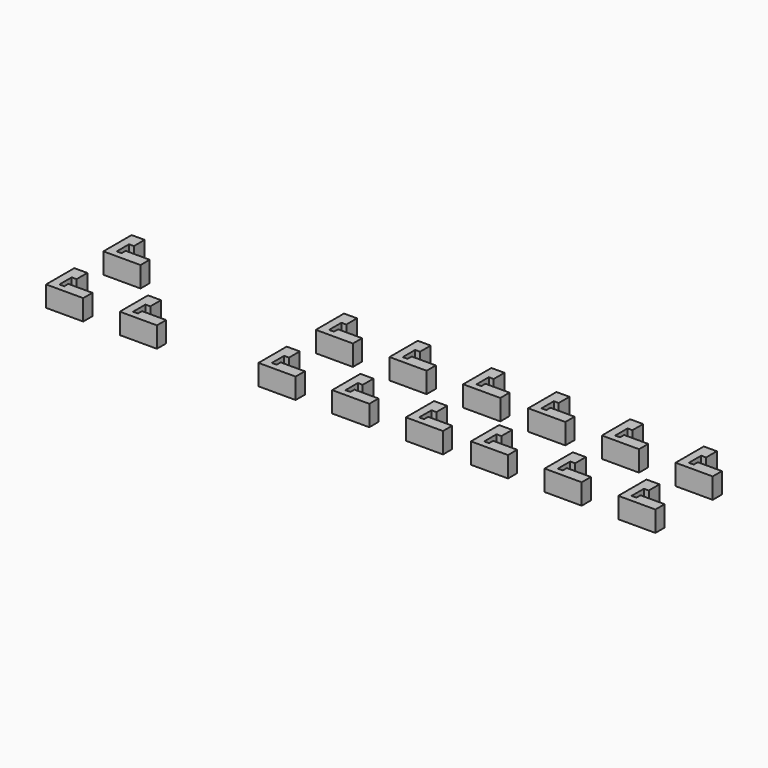
from build123d import *

# Parameters (mm, degrees)
F1_DEPTH = 25.4


with BuildPart() as f1:
    # F0 (on Top) → F1 (new body)
    with BuildSketch(Plane.XY):
        Polygon((-6.8024713546, 45.5786075115), (-6.8024713546, 62.0988953531), (-22.8368639946, 62.0988953531), (-22.8368639946, 18.6926565737), (22.8368602693, 18.6926565737), (22.8368602693, 32.8786075115), (-6.8024713546, 32.8786075115), (-6.8024713546, 26.574909687), (-12.7951232716, 26.574909687), (-12.7951232716, 32.8786075115), (-12.7951232716, 45.5786075115), align=None)
    extrude(amount=F1_DEPTH)


with BuildPart() as f1b:
    # F0 (on Top) → F1, piece 2 (new body)
    with BuildSketch(Plane.XY):
        Polygon((-6.8024713546, 133.7166075115), (-6.8024713546, 150.2368953531), (-22.8368639946, 150.2368953531), (-22.8368639946, 106.8306565737), (22.8368602693, 106.8306565737), (22.8368602693, 121.0166075115), (-6.8024713546, 121.0166075115), (-6.8024713546, 114.712909687), (-12.7951232716, 114.712909687), (-12.7951232716, 121.0166075115), (-12.7951232716, 133.7166075115), align=None)
    extrude(amount=F1_DEPTH)


with BuildPart() as f1c:
    # F0 (on Top) → F1, piece 3 (new body)
    with BuildSketch(Plane.XY):
        Polygon((83.8755286454, 45.5786075115), (83.8755286454, 62.0988953531), (67.8411360054, 62.0988953531), (67.8411360054, 18.6926565737), (113.5148602693, 18.6926565737), (113.5148602693, 32.8786075115), (83.8755286454, 32.8786075115), (83.8755286454, 26.574909687), (77.8828767284, 26.574909687), (77.8828767284, 32.8786075115), (77.8828767284, 45.5786075115), align=None)
    extrude(amount=F1_DEPTH)


with BuildPart() as f1d:
    # F0 (on Top) → F1, piece 4 (new body)
    with BuildSketch(Plane.XY):
        Polygon((83.8755286454, 133.7166075115), (83.8755286454, 150.2368953531), (67.8411360054, 150.2368953531), (67.8411360054, 106.8306565737), (113.5148602693, 106.8306565737), (113.5148602693, 121.0166075115), (83.8755286454, 121.0166075115), (83.8755286454, 114.712909687), (77.8828767284, 114.712909687), (77.8828767284, 121.0166075115), (77.8828767284, 133.7166075115), align=None)
    extrude(amount=F1_DEPTH)


with BuildPart() as f1e:
    # F0 (on Top) → F1, piece 5 (new body)
    with BuildSketch(Plane.XY):
        Polygon((174.5535286454, 45.5786075115), (174.5535286454, 62.0988953531), (158.5191360054, 62.0988953531), (158.5191360054, 18.6926565737), (204.1928602693, 18.6926565737), (204.1928602693, 32.8786075115), (174.5535286454, 32.8786075115), (174.5535286454, 26.574909687), (168.5608767284, 26.574909687), (168.5608767284, 32.8786075115), (168.5608767284, 45.5786075115), align=None)
    extrude(amount=F1_DEPTH)


with BuildPart() as f1f:
    # F0 (on Top) → F1, piece 6 (new body)
    with BuildSketch(Plane.XY):
        Polygon((174.5535286454, 133.7166075115), (174.5535286454, 150.2368953531), (158.5191360054, 150.2368953531), (158.5191360054, 106.8306565737), (204.1928602693, 106.8306565737), (204.1928602693, 121.0166075115), (174.5535286454, 121.0166075115), (174.5535286454, 114.712909687), (168.5608767284, 114.712909687), (168.5608767284, 121.0166075115), (168.5608767284, 133.7166075115), align=None)
    extrude(amount=F1_DEPTH)


with BuildPart() as f1g:
    # F0 (on Top) → F1, piece 7 (new body)
    with BuildSketch(Plane.XY):
        Polygon((465.5588602693, 121.0166075115), (435.9195286454, 121.0166075115), (435.9195286454, 114.712909687), (429.9268767284, 114.712909687), (429.9268767284, 121.0166075115), (429.9268767284, 133.7166075115), (435.9195286454, 133.7166075115), (435.9195286454, 150.2368953531), (419.8851360054, 150.2368953531), (419.8851360054, 106.8306565737), (465.5588602693, 106.8306565737), align=None)
    extrude(amount=F1_DEPTH)


with BuildPart() as f1h:
    # F0 (on Top) → F1, piece 8 (new body)
    with BuildSketch(Plane.XY):
        Polygon((284.2028602693, 32.8786075115), (254.5635286454, 32.8786075115), (254.5635286454, 26.574909687), (248.5708767284, 26.574909687), (248.5708767284, 32.8786075115), (248.5708767284, 45.5786075115), (254.5635286454, 45.5786075115), (254.5635286454, 62.0988953531), (238.5291360054, 62.0988953531), (238.5291360054, 18.6926565737), (284.2028602693, 18.6926565737), align=None)
    extrude(amount=F1_DEPTH)


with BuildPart() as f1i:
    # F0 (on Top) → F1, piece 9 (new body)
    with BuildSketch(Plane.XY):
        Polygon((374.8808602693, 32.8786075115), (345.2415286454, 32.8786075115), (345.2415286454, 26.574909687), (339.2488767284, 26.574909687), (339.2488767284, 32.8786075115), (339.2488767284, 45.5786075115), (345.2415286454, 45.5786075115), (345.2415286454, 62.0988953531), (329.2071360054, 62.0988953531), (329.2071360054, 18.6926565737), (374.8808602693, 18.6926565737), align=None)
    extrude(amount=F1_DEPTH)


with BuildPart() as f1j:
    # F0 (on Top) → F1, piece 10 (new body)
    with BuildSketch(Plane.XY):
        Polygon((284.2028602693, 106.8306565737), (284.2028602693, 121.0166075115), (254.5635286454, 121.0166075115), (254.5635286454, 114.712909687), (248.5708767284, 114.712909687), (248.5708767284, 121.0166075115), (248.5708767284, 133.7166075115), (254.5635286454, 133.7166075115), (254.5635286454, 150.2368953531), (238.5291360054, 150.2368953531), (238.5291360054, 106.8306565737), align=None)
    extrude(amount=F1_DEPTH)


with BuildPart() as f1k:
    # F0 (on Top) → F1, piece 11 (new body)
    with BuildSketch(Plane.XY):
        Polygon((465.5588602693, 18.6926565737), (465.5588602693, 32.8786075115), (435.9195286454, 32.8786075115), (435.9195286454, 26.574909687), (429.9268767284, 26.574909687), (429.9268767284, 32.8786075115), (429.9268767284, 45.5786075115), (435.9195286454, 45.5786075115), (435.9195286454, 62.0988953531), (419.8851360054, 62.0988953531), (419.8851360054, 18.6926565737), align=None)
    extrude(amount=F1_DEPTH)


with BuildPart() as f1l:
    # F0 (on Top) → F1, piece 12 (new body)
    with BuildSketch(Plane.XY):
        Polygon((345.2415286454, 150.2368953531), (329.2071360054, 150.2368953531), (329.2071360054, 106.8306565737), (374.8808602693, 106.8306565737), (374.8808602693, 121.0166075115), (345.2415286454, 121.0166075115), (345.2415286454, 114.712909687), (339.2488767284, 114.712909687), (339.2488767284, 121.0166075115), (339.2488767284, 133.7166075115), (345.2415286454, 133.7166075115), align=None)
    extrude(amount=F1_DEPTH)


with BuildPart() as f1m:
    # F0 (on Top) → F1, piece 13 (new body)
    with BuildSketch(Plane.XY):
        Polygon((726.9248602693, 121.0166075115), (697.2855286454, 121.0166075115), (697.2855286454, 114.712909687), (691.2928767284, 114.712909687), (691.2928767284, 121.0166075115), (691.2928767284, 133.7166075115), (697.2855286454, 133.7166075115), (697.2855286454, 150.2368953531), (681.2511360054, 150.2368953531), (681.2511360054, 106.8306565737), (726.9248602693, 106.8306565737), align=None)
    extrude(amount=F1_DEPTH)


with BuildPart() as f1n:
    # F0 (on Top) → F1, piece 14 (new body)
    with BuildSketch(Plane.XY):
        Polygon((545.5688602693, 32.8786075115), (515.9295286454, 32.8786075115), (515.9295286454, 26.574909687), (509.9368767284, 26.574909687), (509.9368767284, 32.8786075115), (509.9368767284, 45.5786075115), (515.9295286454, 45.5786075115), (515.9295286454, 62.0988953531), (499.8951360054, 62.0988953531), (499.8951360054, 18.6926565737), (545.5688602693, 18.6926565737), align=None)
    extrude(amount=F1_DEPTH)


with BuildPart() as f1o:
    # F0 (on Top) → F1, piece 15 (new body)
    with BuildSketch(Plane.XY):
        Polygon((636.2468602693, 32.8786075115), (606.6075286454, 32.8786075115), (606.6075286454, 26.574909687), (600.6148767284, 26.574909687), (600.6148767284, 32.8786075115), (600.6148767284, 45.5786075115), (606.6075286454, 45.5786075115), (606.6075286454, 62.0988953531), (590.5731360054, 62.0988953531), (590.5731360054, 18.6926565737), (636.2468602693, 18.6926565737), align=None)
    extrude(amount=F1_DEPTH)


with BuildPart() as f1p:
    # F0 (on Top) → F1, piece 16 (new body)
    with BuildSketch(Plane.XY):
        Polygon((545.5688602693, 106.8306565737), (545.5688602693, 121.0166075115), (515.9295286454, 121.0166075115), (515.9295286454, 114.712909687), (509.9368767284, 114.712909687), (509.9368767284, 121.0166075115), (509.9368767284, 133.7166075115), (515.9295286454, 133.7166075115), (515.9295286454, 150.2368953531), (499.8951360054, 150.2368953531), (499.8951360054, 106.8306565737), align=None)
    extrude(amount=F1_DEPTH)


with BuildPart() as f1q:
    # F0 (on Top) → F1, piece 17 (new body)
    with BuildSketch(Plane.XY):
        Polygon((726.9248602693, 18.6926565737), (726.9248602693, 32.8786075115), (697.2855286454, 32.8786075115), (697.2855286454, 26.574909687), (691.2928767284, 26.574909687), (691.2928767284, 32.8786075115), (691.2928767284, 45.5786075115), (697.2855286454, 45.5786075115), (697.2855286454, 62.0988953531), (681.2511360054, 62.0988953531), (681.2511360054, 18.6926565737), align=None)
    extrude(amount=F1_DEPTH)


with BuildPart() as f1r:
    # F0 (on Top) → F1, piece 18 (new body)
    with BuildSketch(Plane.XY):
        Polygon((606.6075286454, 150.2368953531), (590.5731360054, 150.2368953531), (590.5731360054, 106.8306565737), (636.2468602693, 106.8306565737), (636.2468602693, 121.0166075115), (606.6075286454, 121.0166075115), (606.6075286454, 114.712909687), (600.6148767284, 114.712909687), (600.6148767284, 121.0166075115), (600.6148767284, 133.7166075115), (606.6075286454, 133.7166075115), align=None)
    extrude(amount=F1_DEPTH)


solid = Compound([f1.part, f1b.part, f1c.part, f1g.part, f1h.part, f1i.part, f1j.part, f1k.part, f1l.part, f1m.part, f1n.part, f1o.part, f1p.part, f1q.part, f1r.part])
